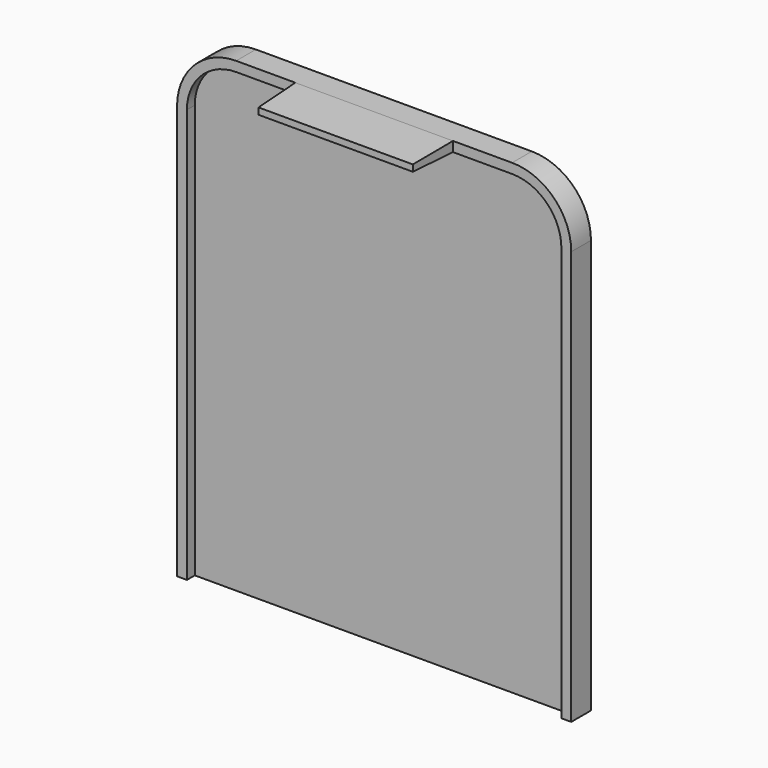
from build123d import *

# Parameters (mm, degrees)
F1_DEPTH = 4.7625
F3_DEPTH = 7.9375
F4_W     = 50.8
F4_H     = 3.175
F5_DEPTH = 15.494
F5_TAPER = 2


with BuildPart() as f1:
    # F0 (on Front) → F1 (new body)
    with BuildSketch(Plane.XZ):
        with BuildLine():
            Line((-63.5, -76.2), (63.5, -76.2))
            Line((63.5, -76.2), (63.5, 57.15))
            ThreePointArc((63.5, 57.15), (57.9203841816, 70.6203841816), (44.45, 76.2))
            Line((44.45, 76.2), (-44.45, 76.2))
            ThreePointArc((-44.45, 76.2), (-57.9203841816, 70.6203841816), (-63.5, 57.15))
            Line((-63.5, 57.15), (-63.5, -76.2))
        make_face()
    extrude(amount=F1_DEPTH)

    # F2 (on face) → F3 (join)
    with BuildSketch(Plane(origin=(0, 0, 0), x_dir=(-1, 0, 0), z_dir=(0, 1, 0))):
        with BuildLine():
            ThreePointArc((-44.45, 76.2), (-57.9203841816, 70.6203841816), (-63.5, 57.15))
            Line((-63.5, 57.15), (-63.5, -76.2))
            Line((-63.5, -76.2), (-60.325, -76.2))
            Line((-60.325, -76.2), (-60.325, 57.15))
            ThreePointArc((-60.325, 57.15), (-55.6753201513, 68.3753201513), (-44.45, 73.025))
            Line((-44.45, 73.025), (44.45, 73.025))
            ThreePointArc((44.45, 73.025), (55.6753201513, 68.3753201513), (60.325, 57.15))
            Line((60.325, 57.15), (60.325, -76.2))
            Line((60.325, -76.2), (63.5, -76.2))
            Line((63.5, -76.2), (63.5, 57.15))
            ThreePointArc((63.5, 57.15), (57.9203841816, 70.6203841816), (44.45, 76.2))
            Line((44.45, 76.2), (-44.45, 76.2))
        make_face()
    extrude(amount=-F3_DEPTH)

    # F4 (on face) → F5 (join)
    with BuildSketch(Plane.XZ.offset(7.9375)):
        with Locations((0, 74.6125)):
            Rectangle(F4_W, F4_H)
    extrude(amount=F5_DEPTH, taper=F5_TAPER)


solid = f1.part
